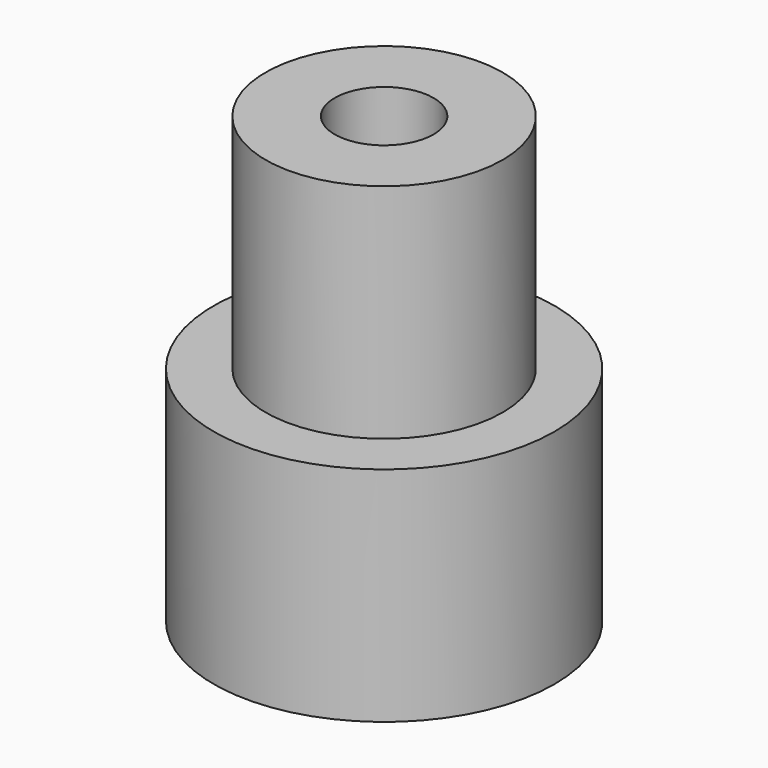
from build123d import *

# Parameters (mm, degrees)
CYLINDER003006_R     = 1
CYLINDER003006_DEPTH = 20
CYLINDER003003_R     = 2.4
CYLINDER003003_DEPTH = 4.5
CYLINDER003005_R     = 3.45
CYLINDER003005_DEPTH = 4.5


with BuildPart() as cylinder007:
    # Cylinder003006 → Cylinder003006 (new body)
    with BuildSketch(Plane(origin=(11, 10, -8), x_dir=(1, 0, 0), z_dir=(0, 0, 1))):
        Circle(CYLINDER003006_R)
    extrude(amount=CYLINDER003006_DEPTH)


with BuildPart() as cut002002002013:
    # Cylinder003003 → Cylinder003003 (new body)
    with BuildSketch(Plane(origin=(11, 10, -0.5), x_dir=(1, 0, 0), z_dir=(0, 0, 1))):
        Circle(CYLINDER003003_R)
    extrude(amount=CYLINDER003003_DEPTH)

    # Cut002002002013: cut Cylinder007
    add(cylinder007.part, mode=Mode.SUBTRACT)


with BuildPart() as propeller_hub_old:
    # Cylinder003005 → Cylinder003005 (new body)
    with BuildSketch(Plane(origin=(11, 10, -5), x_dir=(1, 0, 0), z_dir=(0, 0, 1))):
        Circle(CYLINDER003005_R)
    extrude(amount=CYLINDER003005_DEPTH)

    # Cut002002002012: cut Cylinder007
    add(cylinder007.part, mode=Mode.SUBTRACT)

    # Connect006: union Cut002002002013
    add(cut002002002013.part)


with BuildPart() as propeller_hub_old_1:
    # Connect006 placement: moved
    add(propeller_hub_old.part.moved(Location((0, 0, 0.5))))


solid = propeller_hub_old_1.part
